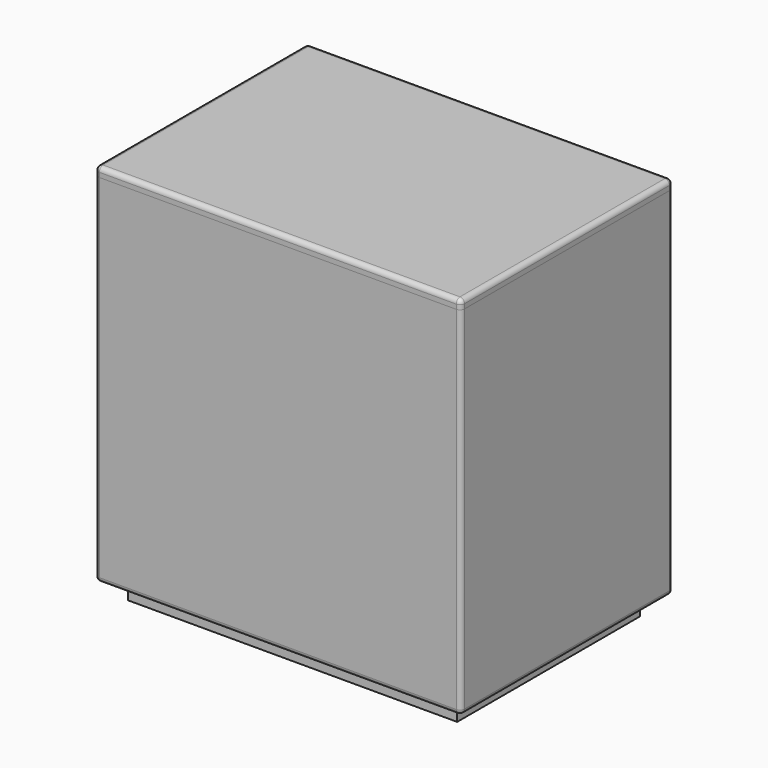
from build123d import *

# Parameters (mm, degrees)
F0_W     = 400
F0_H     = 290
F1_DEPTH = 290
F2_W     = 400
F2_H     = 290
F2_W_2   = 130
F2_H_2   = 80
F3_DEPTH = 100
F4_R     = 5
F5_W     = 360
F5_H     = 250
F5_W_2   = 320
F5_H_2   = 210
F6_DEPTH = 20
F7_W     = 130
F7_H     = 80
F8_DEPTH = 10
F9_R     = 5


with BuildPart() as f1:
    # F0 (on Top) → F1 (new body)
    with BuildSketch(Plane.XY):
        Rectangle(F0_W, F0_H)
    extrude(amount=F1_DEPTH)

    # F2 (on face) → F3 (join)
    with BuildSketch(Plane.XY.offset(290)):
        Rectangle(F2_W, F2_H)
        Rectangle(F2_W_2, F2_H_2, mode=Mode.SUBTRACT)
    extrude(amount=F3_DEPTH)

    # F4
    f4_edges = [f1.edges().sort_by_distance(p)[0] for p in [
        (-200, -145, 195),
        (200, 0, 0),
        (0, 145, 0),
        (-200, 0, 0),
        (0, -145, 0),
        (-200, 145, 195),
        (200, 145, 195),
        (200, -145, 195),
    ]]
    fillet(f4_edges, radius=F4_R)


with BuildPart() as f6:
    # F5 (on face) → F6 (new body)
    with BuildSketch(Plane(origin=(0, 0, 0), x_dir=(1, 0, 0), z_dir=(0, 0, -1))):
        Rectangle(F5_W, F5_H)
        Rectangle(F5_W_2, F5_H_2, mode=Mode.SUBTRACT)
    extrude(amount=F6_DEPTH)


with BuildPart() as f8:
    # F7 (on face) → F8 (new body)
    with BuildSketch(Plane.XY.offset(390)):
        with BuildLine():
            ThreePointArc((-200, -140), (-198.5355339059, -143.5355339059), (-195, -145))
            Line((-195, -145), (195, -145))
            ThreePointArc((195, -145), (198.5355339059, -143.5355339059), (200, -140))
            Line((200, -140), (200, 140))
            ThreePointArc((200, 140), (198.5355339059, 143.5355339059), (195, 145))
            Line((195, 145), (-195, 145))
            ThreePointArc((-195, 145), (-198.5355339059, 143.5355339059), (-200, 140))
            Line((-200, 140), (-200, -140))
        make_face()
        Rectangle(F7_W, F7_H, mode=Mode.SUBTRACT)
        Rectangle(F7_W, F7_H)
    extrude(amount=F8_DEPTH)

    # F9
    f9_edges = [f8.edges().sort_by_distance(p)[0] for p in [
        (-200, 0, 400),
        (0, 145, 400),
    ]]
    fillet(f9_edges, radius=F9_R)


solid = Compound([f1.part, f6.part, f8.part])
